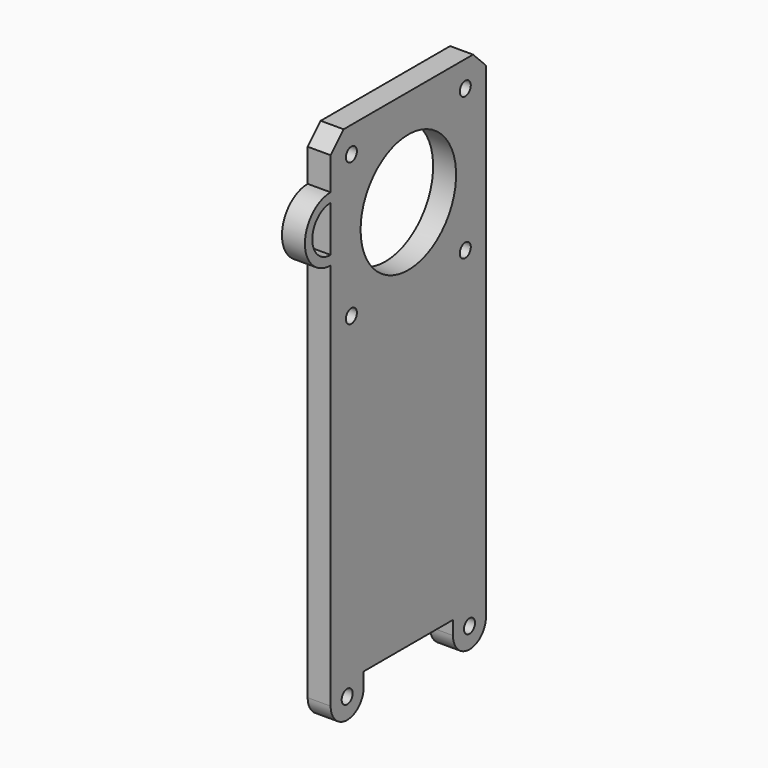
from build123d import *

# Parameters (mm, degrees)
SKETCH009_R     = 1.5
SKETCH009_R_2   = 13
PAD007_DEPTH    = 5
PAD012_DEPTH    = 6
SKETCH025_W     = 4.5
SKETCH025_H     = 5.5
POCKET004_DEPTH = 2
FILLET001_R     = 1
PAD016_DEPTH    = 5
FILLET002_R     = 5
PAD019_DEPTH    = 5


with BuildPart() as part:
    # Sketch009 (on Face1 of Binder) → Pad007 (new body)
    with BuildSketch(Plane(origin=(-40, 0, 0), x_dir=(0, -1, 0), z_dir=(-1, 0, 0))):
        with BuildLine():
            Line((-21.15, -17.614466), (-21.15, 17.614466))
            Line((-21.15, 17.614466), (-17.614466, 21.15))
            Line((-17.614466, 21.15), (17.614466, 21.15))
            Line((17.614466, 21.15), (21.15, 17.614466))
            Line((21.15, 17.614466), (21.15, -17.614466))
            Line((21.15, -17.614466), (21.15, -85))
            Line((21.15, -88), (21.15, -85))
            ThreePointArc((12.15, -88), (16.65, -92.5), (21.15, -88))
            Line((12.15, -85), (12.15, -88))
            Line((-12.15, -85), (12.15, -85))
            Line((-12.15, -88), (-12.15, -85))
            ThreePointArc((-21.15, -88), (-16.65, -92.5), (-12.15, -88))
            Line((-21.15, -85), (-21.15, -88))
            Line((-21.15, -85), (-21.15, -17.614466))
        make_face()
        with Locations((-15.5, 15.5)):
            Circle(SKETCH009_R, mode=Mode.SUBTRACT)
        with Locations((15.5, 15.5)):
            Circle(SKETCH009_R, mode=Mode.SUBTRACT)
        with Locations((15.5, -15.5)):
            Circle(SKETCH009_R, mode=Mode.SUBTRACT)
        with Locations((-15.5, -15.5)):
            Circle(SKETCH009_R, mode=Mode.SUBTRACT)
        Circle(SKETCH009_R_2, mode=Mode.SUBTRACT)
        with Locations((-16.65, -88)):
            Circle(SKETCH009_R, mode=Mode.SUBTRACT)
        with Locations((16.65, -88)):
            Circle(SKETCH009_R, mode=Mode.SUBTRACT)
    extrude(amount=PAD007_DEPTH)

    # Sketch024 (on Face23 of Pad007) → Pad012 (join)
    with BuildSketch(Plane(origin=(-45, 0, 0), x_dir=(0, -1, 0), z_dir=(-1, 0, 0))):
        with BuildLine():
            ThreePointArc((12.519984, -3.5), (13, 0), (12.519984, 3.5))
            Line((12.519984, 3.5), (16.519984, 3.5))
            Line((16.519984, 3.5), (16.519984, -3.5))
            Line((16.519984, -3.5), (12.519984, -3.5))
        make_face()
    extrude(amount=PAD012_DEPTH)

    # Sketch025 (on Face25 of Pad012) → Pocket004 (cut)
    with BuildSketch(Plane.XZ.offset(14.519984)):
        with Locations((-47.25, 0.75)):
            Rectangle(SKETCH025_W, SKETCH025_H)
    extrude(amount=-POCKET004_DEPTH, mode=Mode.SUBTRACT)

    # Fillet001
    fillet001_edges = [part.edges().sort_by_distance(p)[0] for p in [
        (-48, -16.519984, 3.5),
        (-48, -16.519984, -3.5),
        (-51, -14.519984, -3.5),
        (-51, -16.519984, 0),
    ]]
    fillet(fillet001_edges, radius=FILLET001_R)

    # Sketch036 (on DatumPlane) → Pad016 (join, symmetric)
    with BuildSketch(Plane(origin=(-44.166667, 0, 14.1), x_dir=(-1, 0, 0), z_dir=(0, 1, 0))):
        Polygon((0.833333, -27.1), (3.833333, -30.1), (3.833333, -91.1), (0.833333, -94.1), align=None)
    extrude(amount=PAD016_DEPTH, both=True)

    # Fillet002
    fillet002_edges = [part.edges().sort_by_distance(p)[0] for p in [
        (-48, 0, -16),
        (-48, 0, -77),
    ]]
    fillet(fillet002_edges, radius=FILLET002_R)

    # Sketch045 (on Face4 of Fillet002) → Pad019 (join)
    with BuildSketch(Plane(origin=(-45, 0, 0), x_dir=(0, -1, 0), z_dir=(-1, 0, 0))):
        with BuildLine():
            ThreePointArc((21.15, -1.5), (26.15, 3.5), (21.15, 8.5))
            Line((21.15, 10.5), (21.15, 8.5))
            ThreePointArc((21.15, -3.5), (28.15, 3.5), (21.15, 10.5))
            Line((21.15, -1.5), (21.15, -3.5))
        make_face()
    extrude(amount=-PAD019_DEPTH)


solid = part.part
